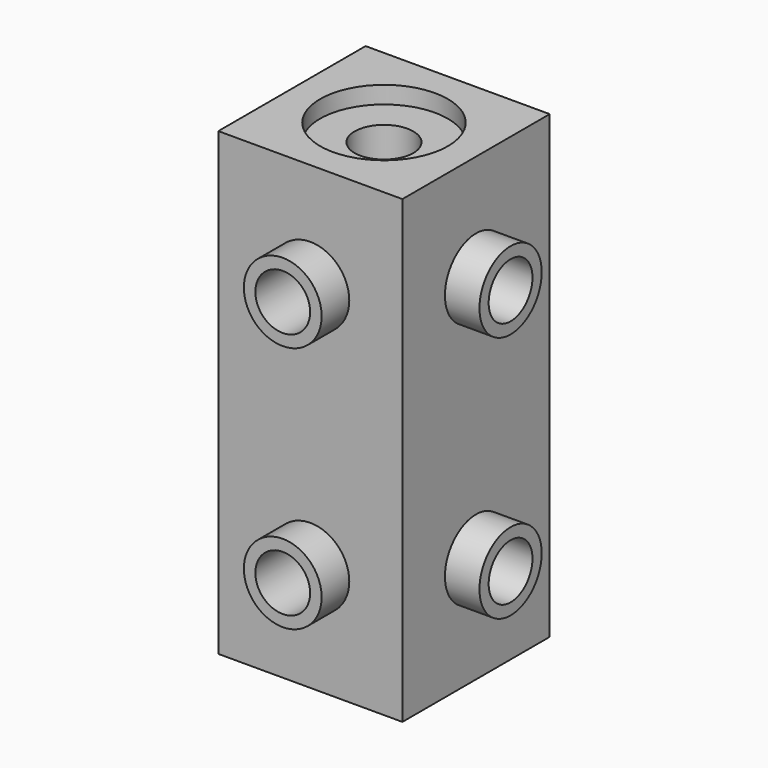
from build123d import *

# Parameters (mm, degrees)
F0_W      = 32
F0_H      = 32
F1_DEPTH  = 40
F2_R      = 4.7625
F3_DEPTH  = 10
F4_R      = 4.7625
F5_DEPTH  = 10
F6_R      = 11.1
F7_DEPTH  = 3
F8_R      = 11.05
F9_DEPTH  = 3
F10_R     = 5.1
F11_DEPTH = 80.001
F12_R     = 6.7625
F12_R_2   = 4.7625
F13_DEPTH = 6
F14_R     = 6.7625
F14_R_2   = 4.7625
F15_DEPTH = 6


with BuildPart() as f1:
    # F0 (on Top) → F1 (new body, symmetric)
    with BuildSketch(Plane.XY):
        Rectangle(F0_W, F0_H)
    extrude(amount=F1_DEPTH, both=True)

    # F2 (on face) → F3 (cut)
    with BuildSketch(Plane.YZ.offset(16)):
        with Locations((0, 21.5)):
            Circle(F2_R)
        with Locations((0, -21.5)):
            Circle(F2_R)
    extrude(amount=-F3_DEPTH, mode=Mode.SUBTRACT)

    # F4 (on face) → F5 (cut)
    with BuildSketch(Plane.XZ.offset(16)):
        with Locations((0, 21.5)):
            Circle(F4_R)
        with Locations((0, -21.5)):
            Circle(F4_R)
    extrude(amount=-F5_DEPTH, mode=Mode.SUBTRACT)

    # F6 (on face) → F7 (cut)
    with BuildSketch(Plane.XY.offset(40)):
        Circle(F6_R)
    extrude(amount=-F7_DEPTH, mode=Mode.SUBTRACT)

    # F8 (on face) → F9 (cut)
    with BuildSketch(Plane(origin=(0, 0, -40), x_dir=(1, 0, 0), z_dir=(0, 0, -1))):
        Circle(F8_R)
    extrude(amount=-F9_DEPTH, mode=Mode.SUBTRACT)

    # F10 (on face) → F11 (cut, through all)
    with BuildSketch(Plane(origin=(0, 0, -40), x_dir=(1, 0, 0), z_dir=(0, 0, -1))):
        Circle(F10_R)
    extrude(amount=-F11_DEPTH, mode=Mode.SUBTRACT)

    # F12 (on face) → F13 (join)
    with BuildSketch(Plane.YZ.offset(16)):
        with Locations((0, 21.5)):
            Circle(F12_R)
        with Locations((0, 21.5)):
            Circle(F12_R_2, mode=Mode.SUBTRACT)
        with Locations((0, -21.5)):
            Circle(F12_R)
        with Locations((0, -21.5)):
            Circle(F12_R_2, mode=Mode.SUBTRACT)
    extrude(amount=F13_DEPTH)

    # F14 (on face) → F15 (join)
    with BuildSketch(Plane.XZ.offset(16)):
        with Locations((0, 21.5)):
            Circle(F14_R)
        with Locations((0, 21.5)):
            Circle(F14_R_2, mode=Mode.SUBTRACT)
        with Locations((0, -21.5)):
            Circle(F14_R)
        with Locations((0, -21.5)):
            Circle(F14_R_2, mode=Mode.SUBTRACT)
    extrude(amount=F15_DEPTH)


solid = f1.part
